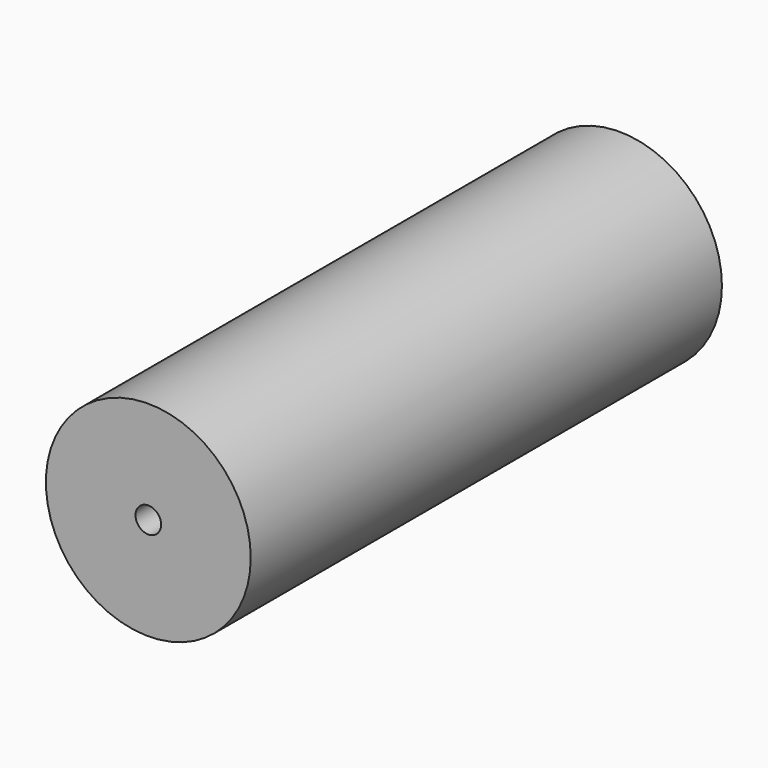
from build123d import *

# Parameters (mm, degrees)
F0_R     = 50.8
F1_DEPTH = 292.1
F2_R     = 6.35
F3_DEPTH = 292.1


with BuildPart() as f1:
    # F0 (on Front) → F1 (new body)
    with BuildSketch(Plane.XZ):
        Circle(F0_R)
        Circle(F0_R)
    extrude(amount=F1_DEPTH)

    # F2 (on face) → F3 (cut)
    with BuildSketch(Plane.XZ.offset(292.1)):
        Circle(F2_R)
    extrude(amount=-F3_DEPTH, mode=Mode.SUBTRACT)


solid = f1.part
